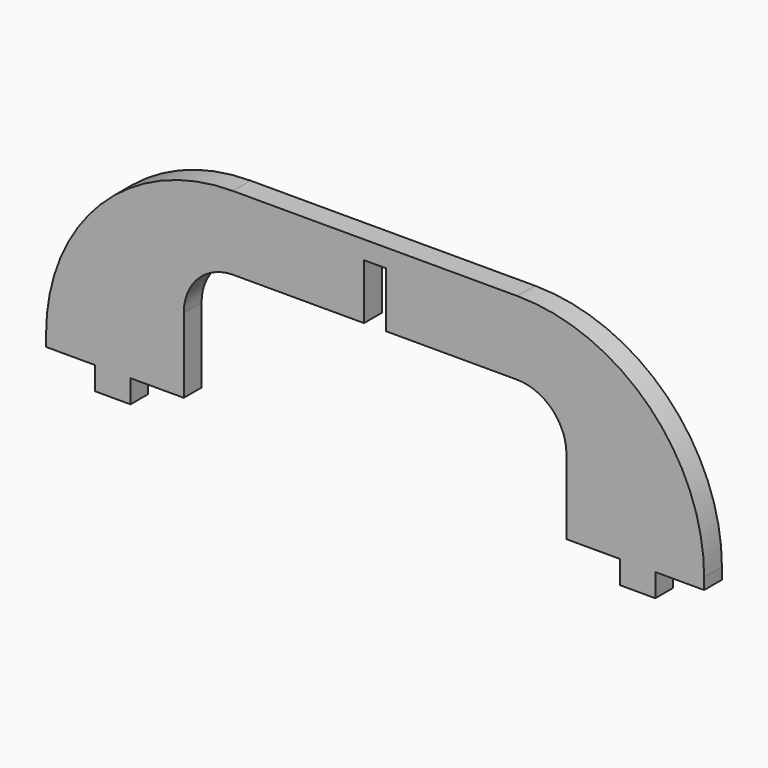
from build123d import *

# Parameters (mm, degrees)
F1_DEPTH = 6.35


with BuildPart() as f1:
    # F0 (on Front) → F1 (new body)
    with BuildSketch(Plane.XZ):
        with BuildLine():
            Line((-69.944234, -6.604), (-69.944234, 0))
            Line((-69.944234, 0), (-54.704234, 0))
            Line((-54.704234, 0), (-54.704234, 21.365997))
            ThreePointArc((-54.704234, 21.365997), (-50.546907, 31.402673), (-40.510231, 35.56))
            Line((-40.510231, 35.56), (-3.175, 35.56))
            Line((-3.175, 35.56), (-3.175, 51.4096))
            Line((-3.175, 51.4096), (3.175, 51.4096))
            Line((3.175, 51.4096), (3.175, 35.56))
            Line((3.175, 35.56), (40.510231, 35.56))
            ThreePointArc((40.510231, 35.56), (50.546907, 31.402673), (54.704234, 21.365997))
            Line((54.704234, 21.365997), (54.704234, 0))
            Line((54.704234, 0), (69.944234, 0))
            Line((69.944234, 0), (69.944234, -6.604))
            Line((69.944234, -6.604), (80.104234, -6.604))
            Line((80.104234, -6.604), (80.104234, 0))
            Line((80.104234, 0), (94.074234, 0))
            Line((94.074234, 0), (94.074234, 3.265747))
            ThreePointArc((94.074234, 3.265747), (78.440691, 41.008457), (40.697981, 56.642))
            Line((40.697981, 56.642), (-40.697981, 56.642))
            ThreePointArc((-40.697981, 56.642), (-78.440691, 41.008457), (-94.074234, 3.265747))
            Line((-94.074234, 3.265747), (-94.074234, 0))
            Line((-94.074234, 0), (-80.104234, 0))
            Line((-80.104234, 0), (-80.104234, -6.604))
            Line((-80.104234, -6.604), (-69.944234, -6.604))
        make_face()
    extrude(amount=F1_DEPTH)


solid = f1.part
